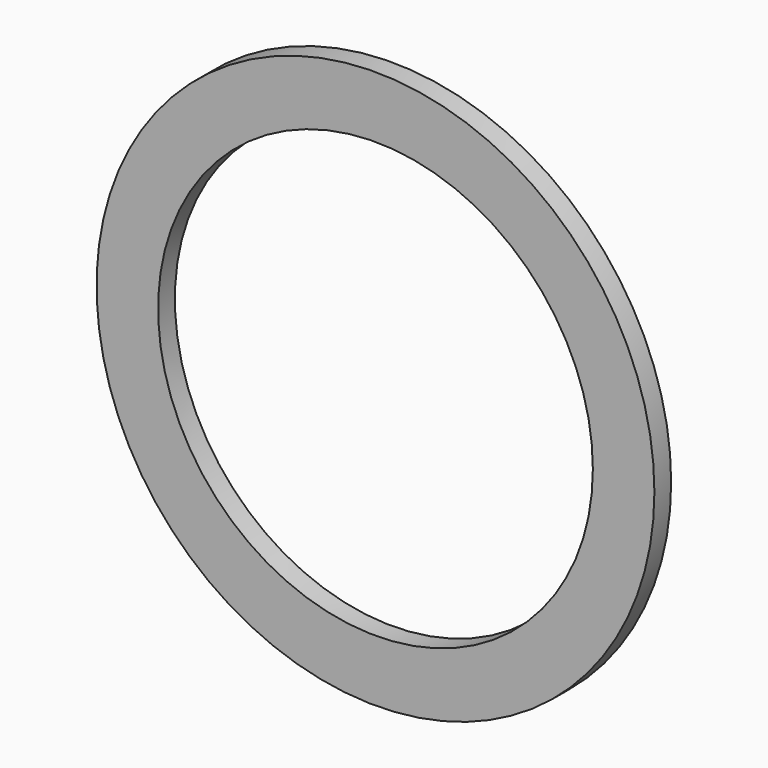
from build123d import *

# Parameters (mm, degrees)
F1_R     = 10.65
F1_R_2   = 8.3
F2_DEPTH = 0.8


with BuildPart() as f2:
    # F1 (on face) → F2 (new body)
    with BuildSketch(Plane.XZ):
        Circle(F1_R)
        Circle(F1_R_2, mode=Mode.SUBTRACT)
    extrude(amount=F2_DEPTH)


solid = f2.part
